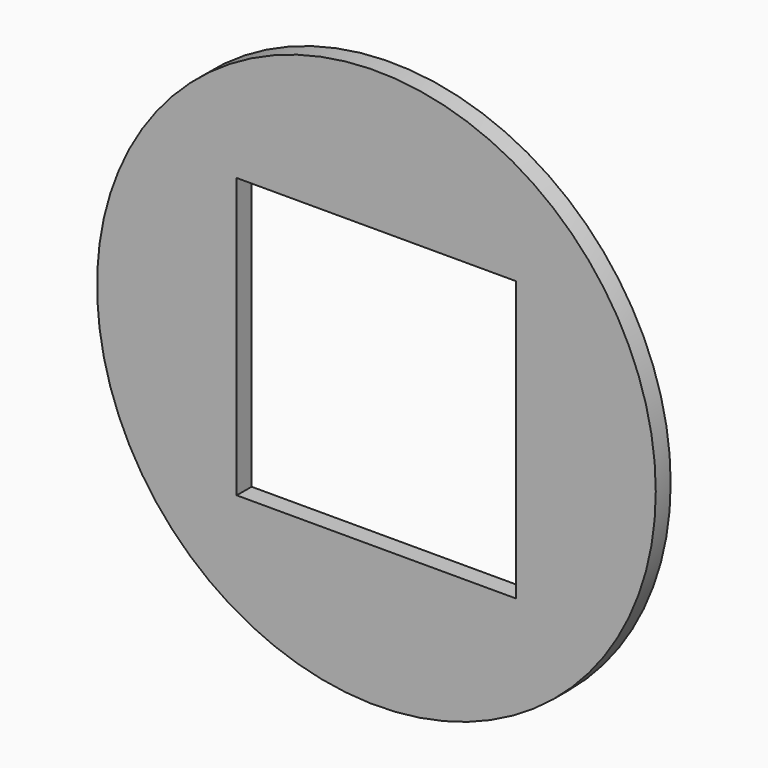
from build123d import *

# Parameters (mm, degrees)
F0_R     = 38.1
F0_W     = 38.1
F0_H     = 38.1
F1_DEPTH = 2.54


with BuildPart() as f1:
    # F0 (on Front) → F1 (new body)
    with BuildSketch(Plane.XZ):
        Circle(F0_R)
        Rectangle(F0_W, F0_H, mode=Mode.SUBTRACT)
    extrude(amount=F1_DEPTH)


solid = f1.part
